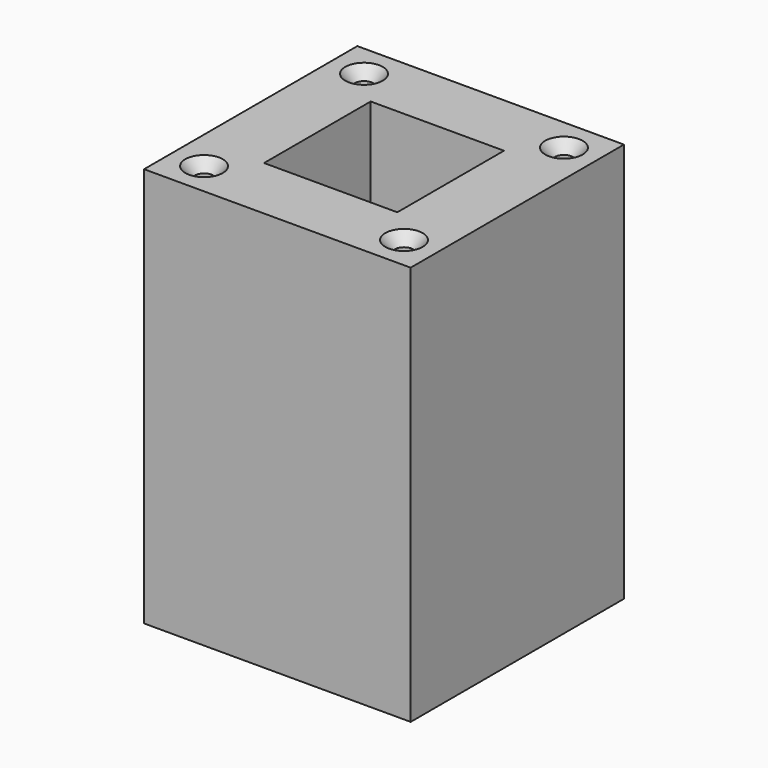
from build123d import *

# Parameters (mm, degrees)
F0_W           = 50.8
F0_H           = 50.8
F1_DEPTH       = 76.2
F2_W           = 25.4
F2_H           = 25.4
F3_DEPTH       = 76.201
F5_D           = 3.4544
F5_DEPTH       = 12.7
F5_CSINK_D     = 7.1374
F5_CSINK_ANGLE = 82
F5_TIP         = 1.0378064612


with BuildPart() as f1:
    # F0 (on Top) → F1 (new body)
    with BuildSketch(Plane.XY):
        with Locations((25.4, -25.4)):
            Rectangle(F0_W, F0_H)
    extrude(amount=F1_DEPTH)

    # F2 (on face) → F3 (cut, through all)
    with BuildSketch(Plane.XY.offset(76.2)):
        with Locations((25.4, -25.4)):
            Rectangle(F2_W, F2_H)
    extrude(amount=-F3_DEPTH, mode=Mode.SUBTRACT)

    # F5
    with Locations(Plane.XY.offset(76.2)):
        with Locations((6.35, -6.35), (44.45, -6.35), (44.45, -44.45), (6.35, -44.45)):
            CounterSinkHole(F5_D / 2, F5_CSINK_D / 2, depth=F5_DEPTH, counter_sink_angle=F5_CSINK_ANGLE)
            with Locations((0, 0, -(F5_DEPTH + F5_TIP / 2))):  # 118° drill point
                Cone(0, F5_D / 2, F5_TIP, mode=Mode.SUBTRACT)


solid = f1.part
